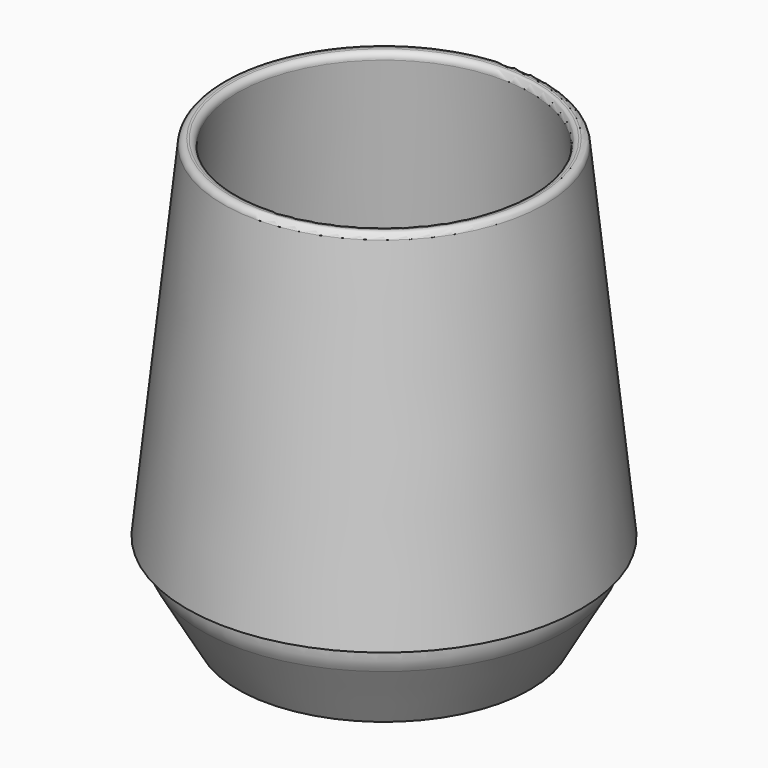
from build123d import *


with BuildPart() as f1:
    # F0 (on Front) → F1 (revolve)
    with BuildSketch(Plane.XZ):
        with BuildLine():
            Line((0, 9), (0, 6))
            Line((0, 6), (18.993515, 6))
            ThreePointArc((18.993515, 6), (23.252285, 4.790172), (26.238968, 1.522063))
            Line((26.238968, 1.522063), (27, 0))
            Line((27, 0), (30, 0))
            Line((30, 0), (37.42918, 12.974822))
            ThreePointArc((37.42918, 12.974822), (38.227719, 14.917411), (38.5, 17))
            Line((38.5, 17), (38.5, 18))
            Line((38.5, 18), (40.5, 18))
            Line((40.5, 18), (33.068382, 88.707122))
            ThreePointArc((33.068382, 88.707122), (32.59362, 89.581524), (31.639617, 89.864113))
            Line((31.639617, 89.864113), (31.241808, 89.822302))
            ThreePointArc((31.241808, 89.822302), (30.367405, 89.34754), (30.084816, 88.393536))
            Line((30.084816, 88.393536), (37.111707, 21.537138))
            ThreePointArc((37.111707, 21.537138), (36.982068, 19.020359), (36.085263, 16.66521))
            Line((36.085263, 16.66521), (34.029843, 13.075486))
            ThreePointArc((34.029843, 13.075486), (31.062889, 10.092548), (27, 9))
            Line((27, 9), (0, 9))
        make_face()
    revolve(axis=Axis((0, 0, 44.353561), (0, 0, 1)))


solid = f1.part
